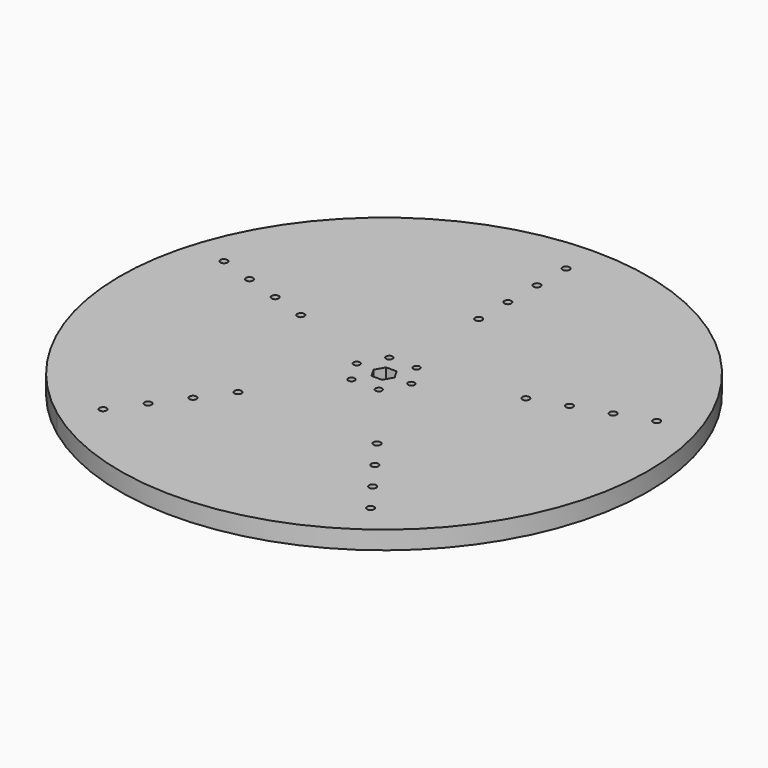
from build123d import *

# Parameters (mm, degrees)
F0_R     = 2.4892
F1_DEPTH = 12.7
F2_R     = 2.286
F3_DEPTH = 12.7


with BuildPart() as f1:
    # F0 (on Top) → F1 (new body)
    with BuildSketch(Plane.XY):
        with BuildLine():
            ThreePointArc((-109.77604, -147.852777), (175.716363, 55.090672), (-174.539009, 58.714197))
            ThreePointArc((-174.539009, 58.714197), (-175.716363, -55.090672), (-109.77604, -147.852777))
        make_face()
        with Locations((-93.310909, -128.431448)):
            Circle(F0_R, mode=Mode.SUBTRACT)
        with Locations((-78.381163, -107.882416)):
            Circle(F0_R, mode=Mode.SUBTRACT)
        with Locations((-63.451418, -87.333385)):
            Circle(F0_R, mode=Mode.SUBTRACT)
        with Locations((-48.521673, -66.784353)):
            Circle(F0_R, mode=Mode.SUBTRACT)
        with Locations((78.381163, -107.882416)):
            Circle(F0_R, mode=Mode.SUBTRACT)
        with Locations((93.310909, -128.431448)):
            Circle(F0_R, mode=Mode.SUBTRACT)
        with Locations((63.451418, -87.333385)):
            Circle(F0_R, mode=Mode.SUBTRACT)
        with Locations((48.521673, -66.784353)):
            Circle(F0_R, mode=Mode.SUBTRACT)
        with Locations((-126.823386, 41.207416)):
            Circle(F0_R, mode=Mode.SUBTRACT)
        with Locations((-102.666551, 33.358385)):
            Circle(F0_R, mode=Mode.SUBTRACT)
        with Locations((-150.980222, 49.056448)):
            Circle(F0_R, mode=Mode.SUBTRACT)
        with Locations((-78.509715, 25.509353)):
            Circle(F0_R, mode=Mode.SUBTRACT)
        with Locations((0, 82.55)):
            Circle(F0_R, mode=Mode.SUBTRACT)
        with Locations((0, 107.95)):
            Circle(F0_R, mode=Mode.SUBTRACT)
        with Locations((0, 133.35)):
            Circle(F0_R, mode=Mode.SUBTRACT)
        with Locations((0, 158.75)):
            Circle(F0_R, mode=Mode.SUBTRACT)
        with Locations((78.509715, 25.509353)):
            Circle(F0_R, mode=Mode.SUBTRACT)
        with Locations((102.666551, 33.358385)):
            Circle(F0_R, mode=Mode.SUBTRACT)
        with Locations((126.823386, 41.207416)):
            Circle(F0_R, mode=Mode.SUBTRACT)
        with Locations((150.980222, 49.056448)):
            Circle(F0_R, mode=Mode.SUBTRACT)
    extrude(amount=F1_DEPTH)

    # F2 (on face) → F3 (cut, through all)
    with BuildSketch(Plane.XY.offset(12.7)):
        Polygon((3.702836, 6.4135), (-3.702836, 6.4135), (-7.405672, 0), (-3.702836, -6.4135), (3.702836, -6.4135), (7.405672, 0), align=None)
        with Locations((-19.05, 0)):
            Circle(F2_R)
        with Locations((-9.525, -16.497784)):
            Circle(F2_R)
        with Locations((9.525, -16.497784)):
            Circle(F2_R)
        with Locations((19.05, 0)):
            Circle(F2_R)
        with Locations((9.525, 16.497784)):
            Circle(F2_R)
        with Locations((-9.525, 16.497784)):
            Circle(F2_R)
    extrude(amount=-F3_DEPTH, mode=Mode.SUBTRACT)


solid = f1.part
